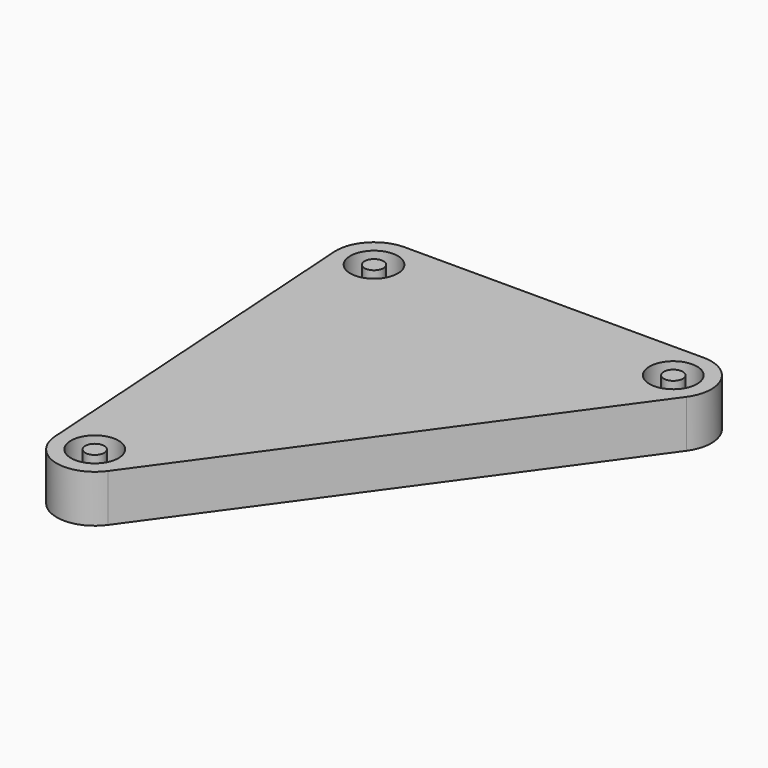
from build123d import *

# Parameters (mm, degrees)
F0_R     = 2.5
F0_R_2   = 1
F1_DEPTH = 2.5


with BuildPart() as f1:
    # F0 (on Top) → F1 (new body, symmetric)
    with BuildSketch(Plane.XY):
        with BuildLine():
            Line((-9.701516, 2.479619), (-7.091516, -37.530381))
            ThreePointArc((-7.091516, -37.530381), (-4.20589, -41.114087), (0.142952, -39.611637))
            Line((0.142952, -39.611637), (29.032952, 0.398363))
            ThreePointArc((29.032952, 0.398363), (29.351358, 4.561188), (25.79, 6.74))
            Line((25.79, 6.74), (-5.71, 6.74))
            ThreePointArc((-5.71, 6.74), (-8.629035, 5.474819), (-9.701516, 2.479619))
        make_face()
        with Locations((-3.1, -37.27)):
            Circle(F0_R, mode=Mode.SUBTRACT)
        with Locations((-5.71, 2.74)):
            Circle(F0_R, mode=Mode.SUBTRACT)
        with Locations((25.79, 2.74)):
            Circle(F0_R, mode=Mode.SUBTRACT)
        with Locations((-5.71, 2.74)):
            Circle(F0_R_2)
        with Locations((-3.1, -37.27)):
            Circle(F0_R_2)
        with Locations((25.79, 2.74)):
            Circle(F0_R_2)
    extrude(amount=F1_DEPTH, both=True)


solid = f1.part
